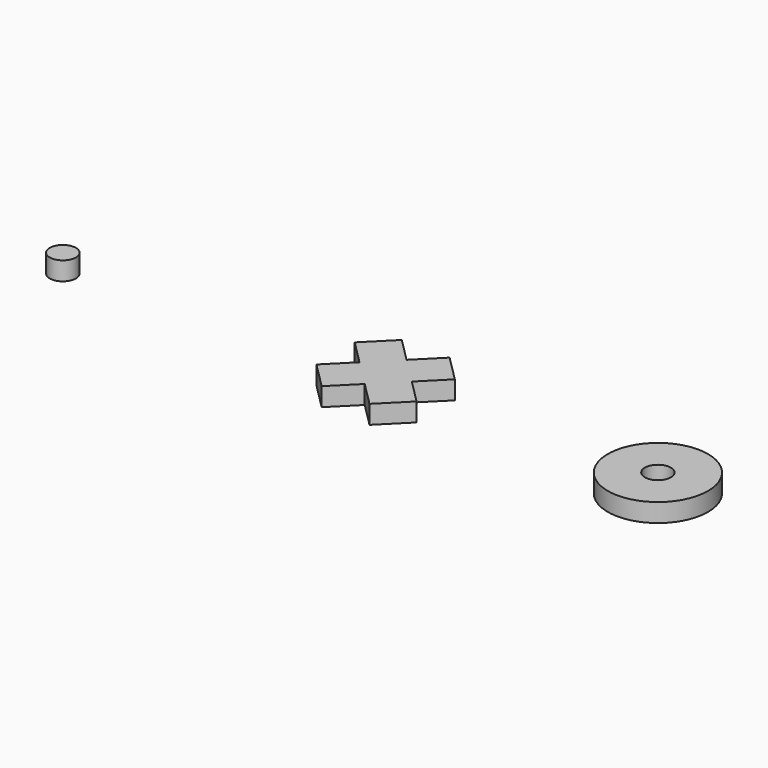
from build123d import *

# Parameters (mm, degrees)
F1_DEPTH = 3.175
F2_R     = 8.595064
F2_R_2   = 2.245064
F3_DEPTH = 3.175
F4_R     = 2.245064
F5_DEPTH = 3.175


with BuildPart() as f1:
    # F0 (on Top) → F1 (new body)
    with BuildSketch(Plane.XY):
        Polygon((4.104936, 8.595064), (0, 4.490128), (-4.104936, 8.595064), (-8.595064, 4.104936), (-4.490128, 0), (-8.595064, -4.104936), (-4.104936, -8.595064), (0, -4.490128), (4.104936, -8.595064), (8.595064, -4.104936), (4.490128, 0), (8.595064, 4.104936), align=None)
    extrude(amount=F1_DEPTH)


with BuildPart() as f3:
    # F2 (on Top) → F3 (new body)
    with BuildSketch(Plane.XY):
        with Locations((46.735421, 0)):
            Circle(F2_R)
        with Locations((46.735421, 0)):
            Circle(F2_R_2, mode=Mode.SUBTRACT)
    extrude(amount=F3_DEPTH)


with BuildPart() as f5:
    # F4 (on Top) → F5 (new body)
    with BuildSketch(Plane.XY):
        with Locations((-55.412982, 0)):
            Circle(F4_R)
    extrude(amount=F5_DEPTH)


solid = Compound([f1.part, f3.part, f5.part])
